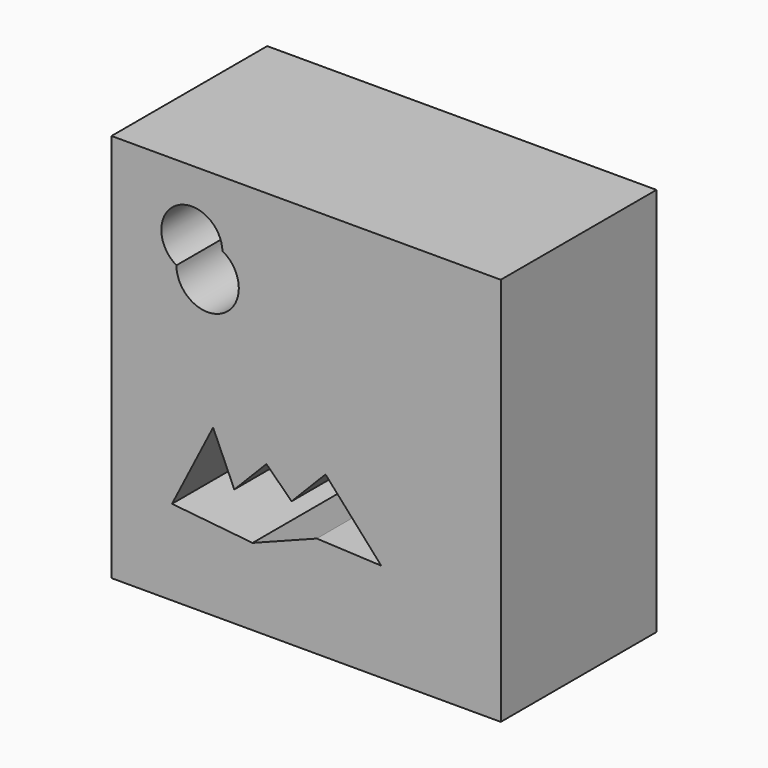
from build123d import *

# Parameters (mm, degrees)
F0_W     = 50.8
F0_H     = 50.8
F1_DEPTH = 25.4


with BuildPart() as f1:
    # F0 (on Front) → F1 (new body)
    with BuildSketch(Plane.XZ):
        with Locations((5.186103, 10.005671)):
            Rectangle(F0_W, F0_H)
        Polygon((-1.808351, -5.362601), (-12.319047, -4.290081), (-6.956447, 6.220616), (-4.191729, 0), (0, 4.290081), (3.288203, 1.077261), (7.712311, 5.605174), (14.984778, -2.519662), (6.576405, -2.135558), align=None, mode=Mode.SUBTRACT)
        with BuildLine():
            ThreePointArc((-11.744377, 23.297704), (-11.772761, 30.160497), (-5.735979, 26.896146))
            ThreePointArc((-5.735979, 26.896146), (-4.175238, 25.399371), (-3.601001, 23.314544))
            ThreePointArc((-3.601001, 23.314544), (-7.664286, 19.242848), (-11.744377, 23.297704))
        make_face(mode=Mode.SUBTRACT)
    extrude(amount=F1_DEPTH)


solid = f1.part
